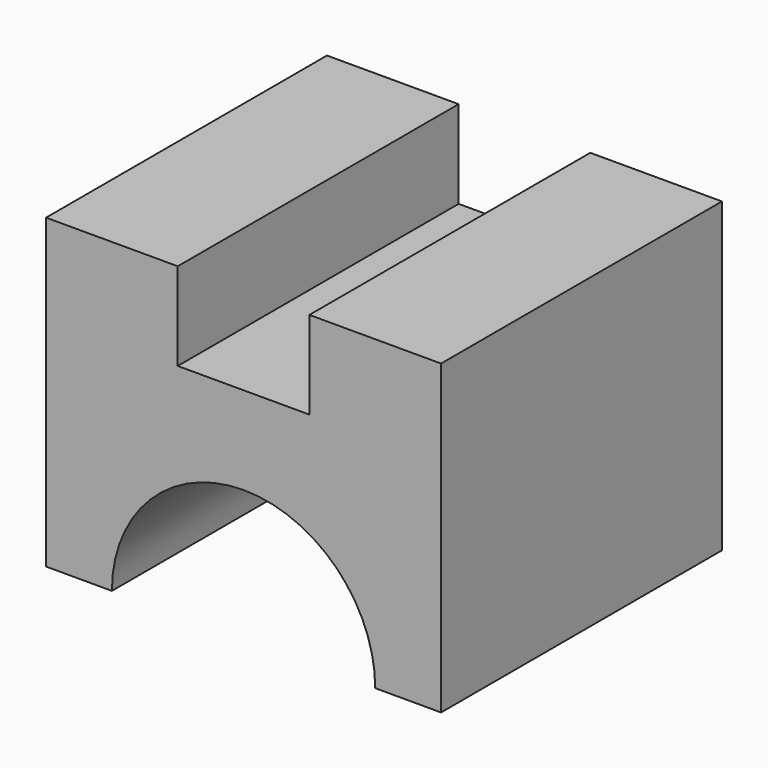
from build123d import *

# Parameters (mm, degrees)
F0_W     = 45
F0_H     = 40
F1_DEPTH = 25
F2_W     = 15
F2_H     = 40
F3_DEPTH = 10
F5_DEPTH = 40.001


with BuildPart() as f1:
    # F0 (on Top) → F1 (new body)
    with BuildSketch(Plane.XY):
        with Locations((41.12878, -0.925693)):
            Rectangle(F0_W, F0_H)
    extrude(amount=F1_DEPTH)

    # F2 (on face) → F3 (join)
    with BuildSketch(Plane.XY.offset(25)):
        with Locations((26.12878, -0.925693)):
            Rectangle(F2_W, F2_H)
        with Locations((56.12878, -0.925693)):
            Rectangle(F2_W, F2_H)
    extrude(amount=F3_DEPTH)

    # F4 (on face) → F5 (cut, through all)
    with BuildSketch(Plane.XZ.offset(20.925693)):
        with BuildLine():
            Line((26.12878, 0), (56.12878, 0))
            ThreePointArc((56.12878, 0), (41.12878, 15), (26.12878, 0))
        make_face()
    extrude(amount=-F5_DEPTH, mode=Mode.SUBTRACT)


solid = f1.part
